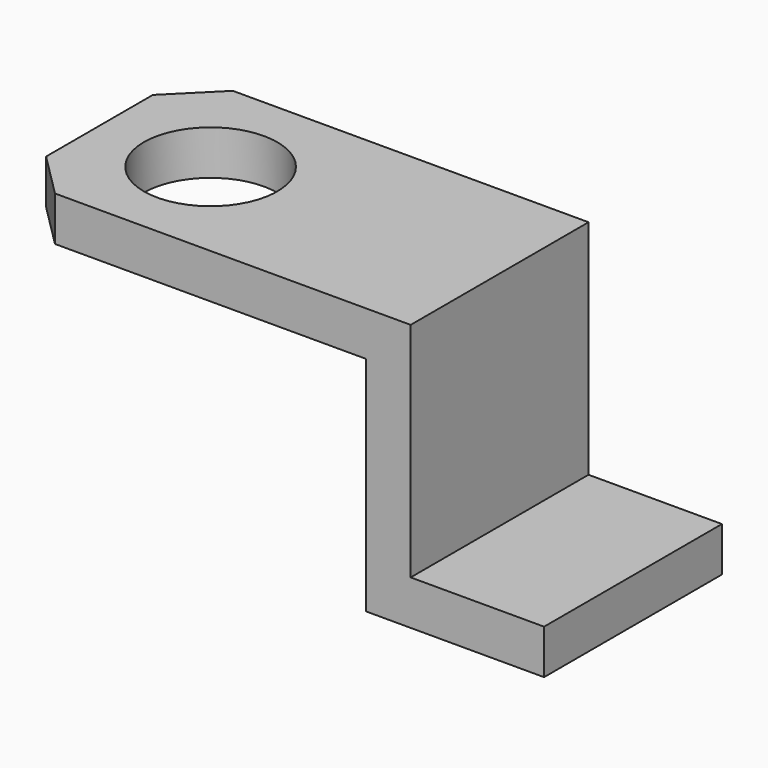
from build123d import *

# Parameters (mm, degrees)
F0_W      = 16
F0_H      = 10
F1_DEPTH  = 2
F2_SIZE   = 2
F7_D      = 6
F8_W      = 10
F8_H      = 2
F8_H_2    = 10
F9_DEPTH  = 2
F10_W     = 10
F10_H     = 2
F11_DEPTH = 6


with BuildPart() as f1:
    # F0 (on Top) → F1 (new body)
    with BuildSketch(Plane.XY):
        with Locations((8, -5)):
            Rectangle(F0_W, F0_H)
    extrude(amount=F1_DEPTH)

    # F2
    f2_edges = [f1.edges().sort_by_distance(p)[0] for p in [
        (0, -10, 1),
        (0, 0, 1),
    ]]
    chamfer(f2_edges, length=F2_SIZE)

    # F7 (through all)
    with Locations(Plane.XY.offset(2)):
        with Locations((5, -5)):
            Hole(F7_D / 2)

    # F8 (on face) → F9 (join)
    with BuildSketch(Plane.YZ.offset(16)):
        with Locations((-5, 1)):
            Rectangle(F8_W, F8_H)
        with Locations((-5, -5)):
            Rectangle(F8_W, F8_H_2)
    extrude(amount=F9_DEPTH)

    # F10 (on face) → F11 (join)
    with BuildSketch(Plane.YZ.offset(18)):
        with Locations((-5, -9)):
            Rectangle(F10_W, F10_H)
    extrude(amount=F11_DEPTH)


solid = f1.part
